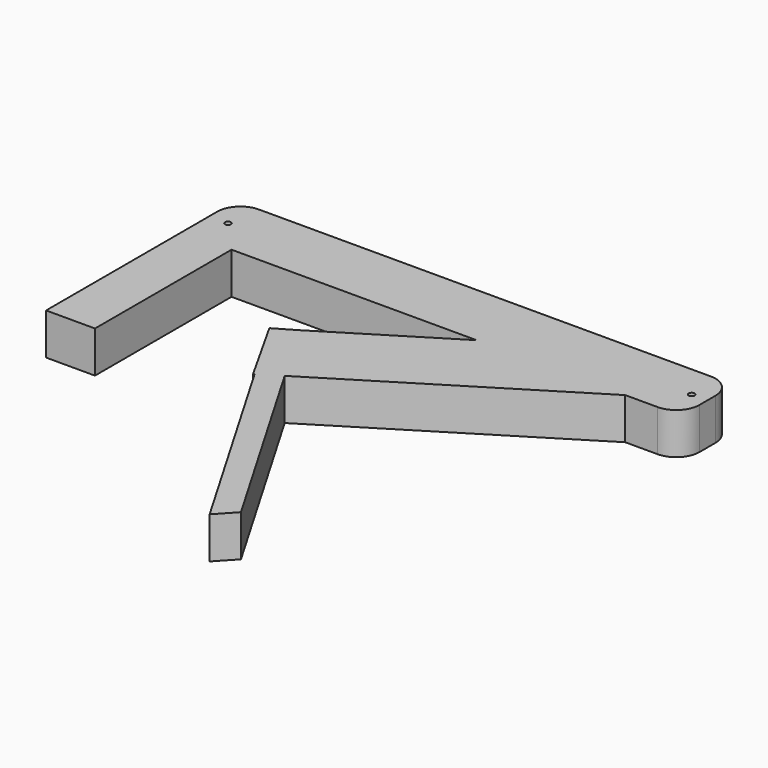
from build123d import *

# Parameters (mm, degrees)
F1_DEPTH = 12.5
F2_R     = 1.8
F3_DEPTH = 26
F4_R     = 1.8
F5_DEPTH = 26


with BuildPart() as f1:
    # F0 (on Top) → F1 (new body, symmetric)
    with BuildSketch(Plane.XY):
        with BuildLine():
            ThreePointArc((150, 6), (145.8994949366, 15.8994949366), (136, 20))
            Line((136, 20), (91.7857438326, 20))
            Line((91.7857438326, 20), (116.478802159, -20))
            Line((116.478802159, -20), (136, -20))
            ThreePointArc((136, -20), (145.8994949366, -15.8994949366), (150, -6))
            Line((150, -6), (150, 6))
        make_face()
        with BuildLine():
            Line((26.9902057972, -20), (91.7857438326, 20))
            Line((91.7857438326, 20), (-120.5630078912, 20))
            Line((-120.5630078912, 20), (-136, 20))
            ThreePointArc((-136, 20), (-145.8994949366, 15.8994949366), (-150, 6))
            Line((-150, 6), (-150, -6))
            Line((-150, -6), (-150, -122.7854788303))
            Line((-150, -122.7854788303), (-120.5630078912, -122.7854788303))
            Line((-120.5630078912, -122.7854788303), (-120.5630078912, -20))
            Line((-120.5630078912, -20), (26.9902057972, -20))
        make_face()
        Polygon((116.478802159, -20), (91.7857438326, 20), (26.9902057972, -20), align=None)
        Polygon((116.478802159, -20), (26.9902057972, -20), (-44.4547757506, -64.1048774123), (-20.7777143928, -104.7320792225), align=None)
        Polygon((-20.7777143928, -104.7320792225), (-44.4547757506, -64.1048774123), (-56.7659190817, -71.2796687602), (-33.0888577239, -111.9068705703), align=None)
        Polygon((49.8645024297, -225.9462601459), (-20.7777143928, -104.7320792225), (-33.0888577239, -111.9068705703), (39.7326772195, -236.8605188106), align=None)
        Polygon((-33.0888577239, -111.9068705703), (-56.7659190817, -71.2796687602), (-33.7199519959, -112.2746649823), align=None)
    extrude(amount=F1_DEPTH, both=True)

    # F2 (on face) → F3 (cut)
    with BuildSketch(Plane.XY.offset(12.5)):
        with Locations((-138.6803537607, 0)):
            Circle(F2_R)
    extrude(amount=-F3_DEPTH, mode=Mode.SUBTRACT)

    # F4 (on face) → F5 (cut)
    with BuildSketch(Plane.XY.offset(12.5)):
        with Locations((140.4866278172, 0)):
            Circle(F4_R)
    extrude(amount=-F5_DEPTH, mode=Mode.SUBTRACT)


solid = f1.part
